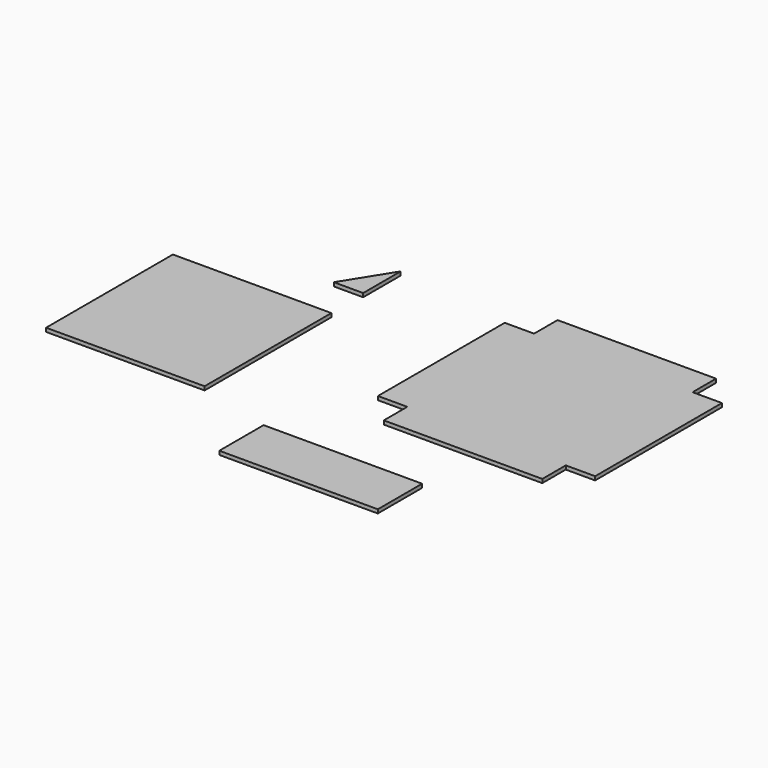
from build123d import *

# Parameters (mm, degrees)
F0_W     = 135
F0_H     = 135
F0_H_2   = 47.17
F1_DEPTH = 3.18


with BuildPart() as f1:
    # F0 (on Top) → F1 (new body)
    with BuildSketch(Plane.XY):
        with Locations((-25.979385, 8.878325)):
            Rectangle(F0_W, F0_H)
        Polygon((40.027325, 112.074353), (40.027325, 152.074353), (15.027325, 112.074353), align=None)
        with Locations((174.698469, -101.443551)):
            Rectangle(F0_W, F0_H_2)
        Polygon((232.822953, 69.941821), (232.822953, 162.441821), (165.322953, 162.441821), (165.322953, 137.441821), (140.322953, 137.441821), (140.322953, 69.941821), align=None)
        Polygon((232.822953, -22.558179), (232.822953, 69.941821), (140.322953, 69.941821), (140.322953, 2.441821), (165.322953, 2.441821), (165.322953, -22.558179), align=None)
        Polygon((325.322953, 2.441821), (325.322953, 69.941821), (232.822953, 69.941821), (232.822953, -22.558179), (300.322953, -22.558179), (300.322953, 2.441821), align=None)
        Polygon((300.322953, 137.441821), (300.322953, 162.441821), (232.822953, 162.441821), (232.822953, 69.941821), (325.322953, 69.941821), (325.322953, 137.441821), align=None)
    extrude(amount=F1_DEPTH)


solid = f1.part
